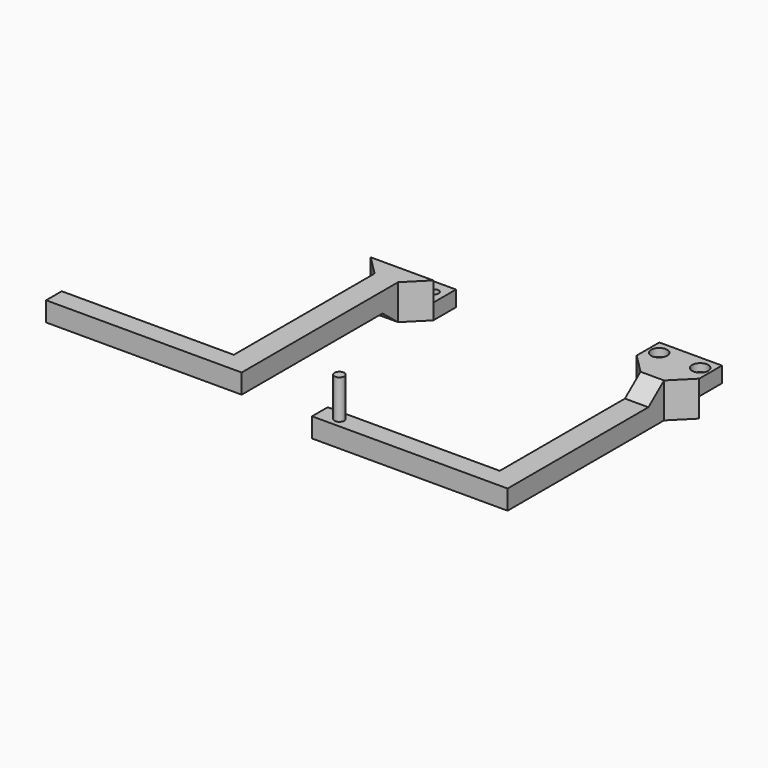
from build123d import *

# Parameters (mm, degrees)
F1_DEPTH        = 18
F2_W            = 14.5
F2_H            = 10
F3_DEPTH        = 32
F4_W            = 14.5
F4_H            = 10
F5_DEPTH        = 32
F7_DEPTH        = 100.001
F9_DEPTH        = 100.001
F10_R           = 2.5
F11_DEPTH       = 20
F13_D           = 4.5
F13_CBORE_D     = 8.25
F13_CBORE_DEPTH = 4
F15_D           = 4.5
F15_CBORE_D     = 8.25
F15_CBORE_DEPTH = 4


with BuildPart() as f1:
    # F0 (on Top) → F1 (new body)
    with BuildSketch(Plane.XY):
        Polygon((-16, 14.5), (-16, 0), (-6, -10), (-6, -100), (-94, -100), (-94, -110), (6, -110), (6, -10), (16, 0), (16, 14.5), align=None)
    extrude(amount=F1_DEPTH)

    # F4 (on face) → F5 (cut, through all)
    with BuildSketch(Plane.YZ.offset(16)):
        with Locations((7.25, 13)):
            Rectangle(F4_W, F4_H)
    extrude(amount=-F5_DEPTH, mode=Mode.SUBTRACT)

    # F8 (on face) → F9 (cut, through all)
    with BuildSketch(Plane.YZ.offset(6)):
        Polygon((-110, 8), (-110, 0), (-10, 0), (-20, 8), align=None)
    extrude(amount=-F9_DEPTH, mode=Mode.SUBTRACT)

    # F13 (through all)
    with Locations(Plane(origin=(0, 0, 0), x_dir=(1, 0, 0), z_dir=(0, 0, -1))):
        with Locations((-10.5, -7.5), (10.5, -7.5)):
            CounterBoreHole(F13_D / 2, F13_CBORE_D / 2, F13_CBORE_DEPTH)


with BuildPart() as f1b:
    # F0 (on Top) → F1, piece 2 (new body)
    with BuildSketch(Plane.XY):
        Polygon((120, 14.5), (120, 0), (130, -10), (130, -100), (42, -100), (42, -110), (142, -110), (142, -10), (152, 0), (152, 14.5), align=None)
    extrude(amount=F1_DEPTH)

    # F2 (on face) → F3 (cut, through all)
    with BuildSketch(Plane.YZ.offset(152)):
        with Locations((7.25, 5)):
            Rectangle(F2_W, F2_H)
    extrude(amount=-F3_DEPTH, mode=Mode.SUBTRACT)

    # F6 (on face) → F7 (cut, through all)
    with BuildSketch(Plane.YZ.offset(142)):
        Polygon((-10, 18), (-110, 18), (-110, 10), (-20, 10), align=None)
    extrude(amount=-F7_DEPTH, mode=Mode.SUBTRACT)

    # F10 (on face) → F11 (join)
    with BuildSketch(Plane.XY.offset(10)):
        with Locations((52, -105)):
            Circle(F10_R)
    extrude(amount=F11_DEPTH)

    # F15 (through all)
    with Locations(Plane.XY.offset(18)):
        with Locations((125.5, 7.5), (146.5, 7.5)):
            CounterBoreHole(F15_D / 2, F15_CBORE_D / 2, F15_CBORE_DEPTH)


solid = Compound([f1.part, f1b.part])
